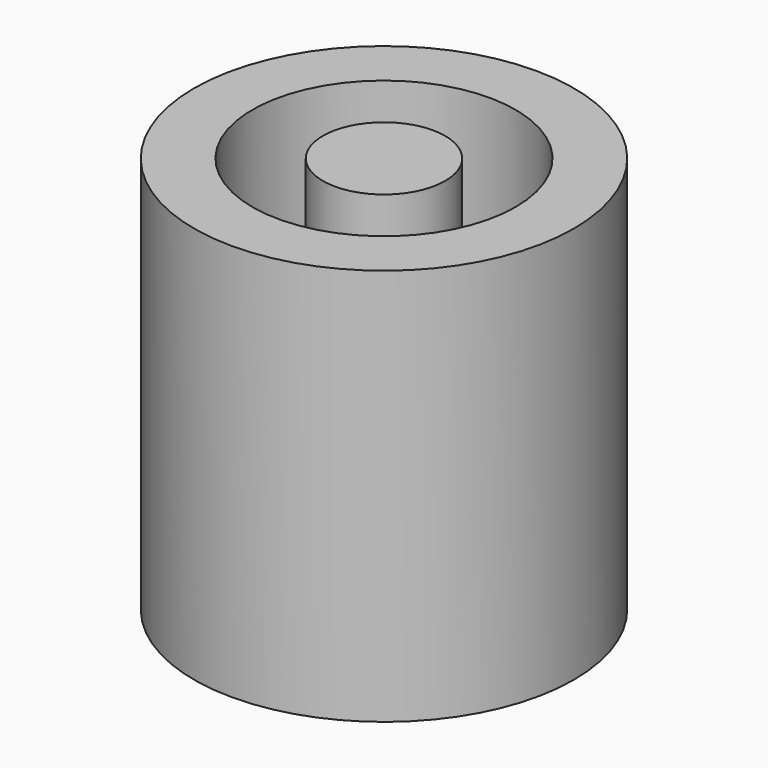
from build123d import *

# Parameters (mm, degrees)
F0_R     = 31.082
F1_DEPTH = 65
F2_R     = 21.542
F2_R_2   = 10
F3_DEPTH = 60


with BuildPart() as f1:
    # F0 (on Top) → F1 (new body)
    with BuildSketch(Plane.XY):
        Circle(F0_R)
    extrude(amount=F1_DEPTH)

    # F2 (on face) → F3 (cut)
    with BuildSketch(Plane.XY.offset(65)):
        Circle(F2_R)
        Circle(F2_R_2, mode=Mode.SUBTRACT)
    extrude(amount=-F3_DEPTH, mode=Mode.SUBTRACT)


solid = f1.part
